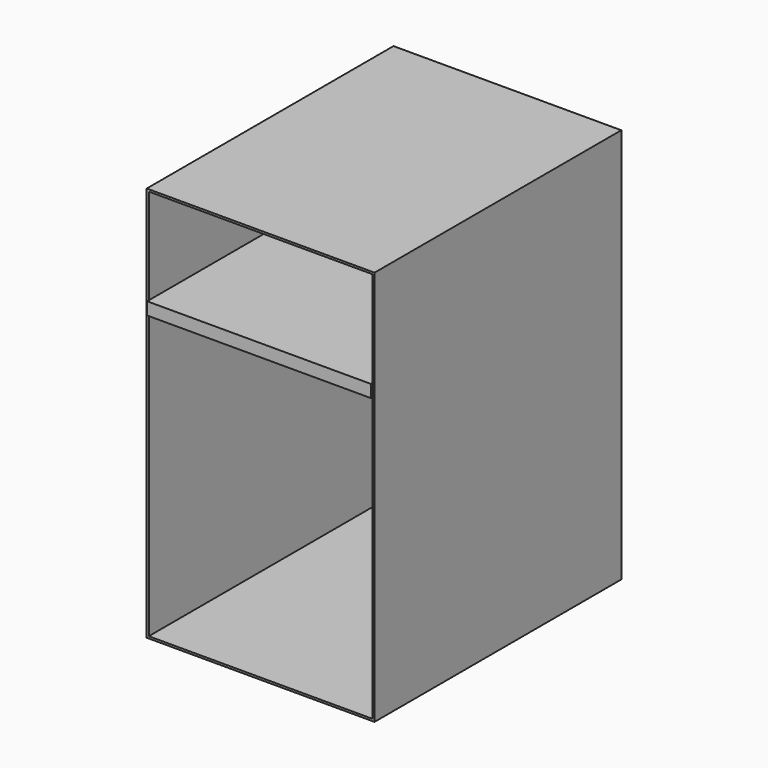
from build123d import *

# Parameters (mm, degrees)
F0_W     = 281.3903391361
F0_H     = 488.5678589344
F1_DEPTH = 381
F2_T     = -2.54
F3_W     = 276.3103391361
F3_H     = 15.4284834862
F4_DEPTH = 381


with BuildPart() as f1:
    # F0 (on Front) → F1 (new body)
    with BuildSketch(Plane.XZ):
        with Locations((-45.8520203829, 92.3334807158)):
            Rectangle(F0_W, F0_H)
    extrude(amount=F1_DEPTH)

    # F2
    f2_openings = [f1.faces().sort_by_distance(p)[0] for p in [
        (-45.85202, -381, 92.333481),
    ]]
    offset(amount=F2_T, openings=f2_openings)

    # F3 (on face) → F4 (join)
    with BuildSketch(Plane.XZ.offset(2.54)):
        with Locations((-45.8520203829, 208.1342786551)):
            Rectangle(F3_W, F3_H)
    extrude(amount=F4_DEPTH)


solid = f1.part
